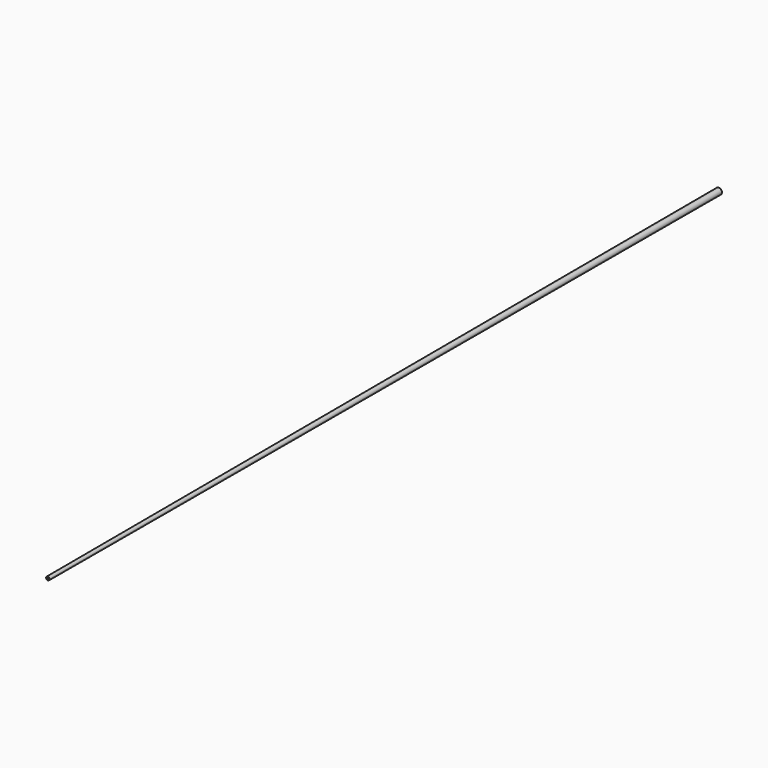
from build123d import *

# Parameters (mm, degrees)
F2_R = 1.5875
F0_R = 2.8575
F5_R = 1.701487396
F4_R = 0.6671291727


with BuildPart() as f3:
    # F2 (on offset) → F3 section 0
    with BuildSketch(Plane.XZ.offset(762)):
        Circle(F2_R)
    # F0 (on Front) → F3 section 1
    with BuildSketch(Plane.XZ):
        Circle(F0_R)
    loft()

    # F5 (on face) → F6 section 0
    with BuildSketch(Plane(origin=(0, 0, 0), x_dir=(-1, 0, 0), z_dir=(0, 1, 0))):
        Circle(F5_R)
    # F4 (on face) → F6 section 1
    with BuildSketch(Plane.XZ.offset(762)):
        Circle(F4_R)
    loft(mode=Mode.SUBTRACT)


solid = f3.part
